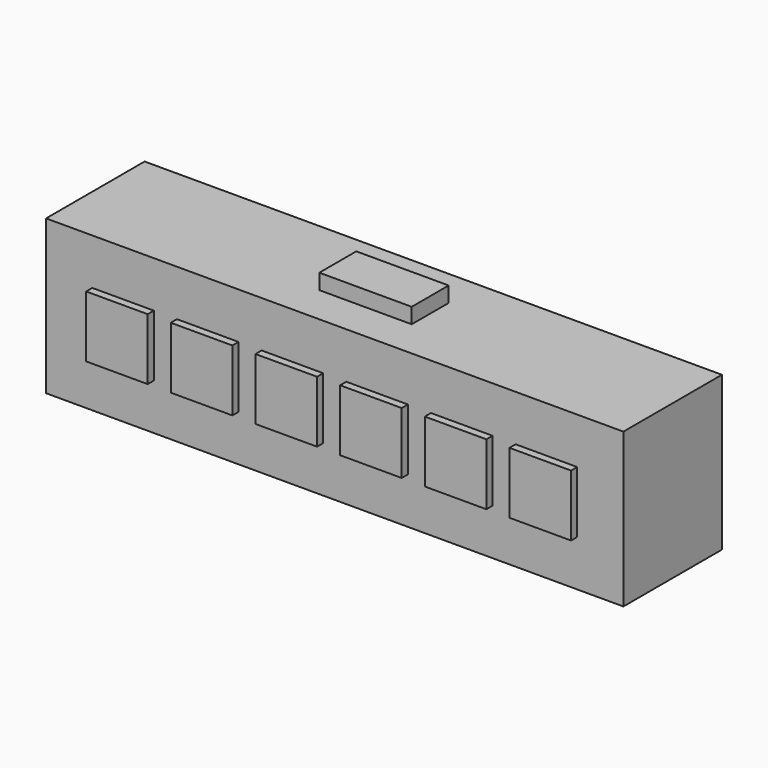
from build123d import *

# Parameters (mm, degrees)
F0_W     = 238.125
F0_H     = 63.5
F1_DEPTH = 50.8
F3_DEPTH = 3.175
F4_W     = 38.1
F4_H     = 19.05
F5_DEPTH = 6.35


with BuildPart() as f1:
    # F0 (on Front) → F1 (new body)
    with BuildSketch(Plane.XZ):
        Rectangle(F0_W, F0_H)
    extrude(amount=F1_DEPTH)

    # F2 (on face) → F3 (join)
    with BuildSketch(Plane.XZ.offset(50.8)):
        Polygon((-87.3125, 0), (-100.0125, 0), (-100.0125, -12.7), (-74.6125, -12.7), (-74.6125, 0), align=None)
        Polygon((-100.0125, 12.7), (-100.0125, 0), (-87.3125, 0), (-74.6125, 0), (-74.6125, 12.7), align=None)
        Polygon((-65.0875, 12.7), (-65.0875, 0), (-52.3875, 0), (-39.6875, 0), (-39.6875, 12.7), align=None)
        Polygon((-52.3875, 0), (-65.0875, 0), (-65.0875, -12.7), (-39.6875, -12.7), (-39.6875, 0), align=None)
        Polygon((-30.1625, 12.7), (-30.1625, 0), (-17.4625, 0), (-4.7625, 0), (-4.7625, 12.7), align=None)
        Polygon((-17.4625, 0), (-30.1625, 0), (-30.1625, -12.7), (-4.7625, -12.7), (-4.7625, 0), align=None)
        Polygon((4.7625, 12.7), (4.7625, 0), (17.4625, 0), (30.1625, 0), (30.1625, 12.7), align=None)
        Polygon((17.4625, 0), (4.7625, 0), (4.7625, -12.7), (30.1625, -12.7), (30.1625, 0), align=None)
        Polygon((39.6875, 12.7), (39.6875, 0), (52.3875, 0), (65.0875, 0), (65.0875, 12.7), align=None)
        Polygon((52.3875, 0), (39.6875, 0), (39.6875, -12.7), (65.0875, -12.7), (65.0875, 0), align=None)
        Polygon((74.6125, 12.7), (74.6125, 0), (87.3125, 0), (100.0125, 0), (100.0125, 12.7), align=None)
        Polygon((87.3125, 0), (74.6125, 0), (74.6125, -12.7), (100.0125, -12.7), (100.0125, 0), align=None)
    extrude(amount=F3_DEPTH)

    # F4 (on face) → F5 (join)
    with BuildSketch(Plane.XY.offset(31.75)):
        with Locations((0, -25.4)):
            Rectangle(F4_W, F4_H)
    extrude(amount=F5_DEPTH)


solid = f1.part
